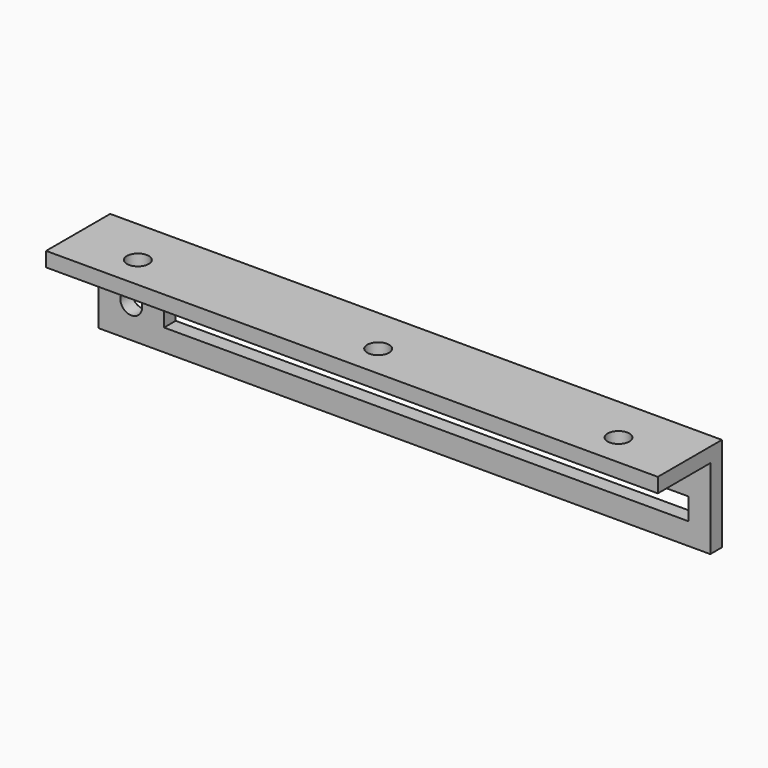
from build123d import *

# Parameters (mm, degrees)
F0_W     = 84
F0_H     = 9
F0_R     = 1.5
F0_W_2   = 72
F0_H_2   = 3
F0_H_3   = 4
F1_DEPTH = 2
F2_W     = 84
F2_H     = 2
F3_DEPTH = 9
F4_R     = 1.5
F5_DEPTH = 25


with BuildPart() as f1:
    # F0 (on Front) → F1 (new body)
    with BuildSketch(Plane.XZ):
        Rectangle(F0_W, F0_H)
        with Locations((-37.5, 0)):
            Circle(F0_R, mode=Mode.SUBTRACT)
        with Locations((3, 0)):
            Rectangle(F0_W_2, F0_H_2, mode=Mode.SUBTRACT)
        with Locations((0, 6.5)):
            Rectangle(F0_W, F0_H_3)
    extrude(amount=F1_DEPTH)

    # F2 (on face) → F3 (join)
    with BuildSketch(Plane.XZ.offset(2)):
        with Locations((0, 7.5)):
            Rectangle(F2_W, F2_H)
    extrude(amount=F3_DEPTH)

    # F4 (on face) → F5 (cut)
    with BuildSketch(Plane.XY.offset(8.5)):
        with Locations((0, -6.5)):
            Circle(F4_R)
        with Locations((33, -6.5)):
            Circle(F4_R)
        with Locations((-33, -6.5)):
            Circle(F4_R)
    extrude(amount=-F5_DEPTH, mode=Mode.SUBTRACT)


solid = f1.part
